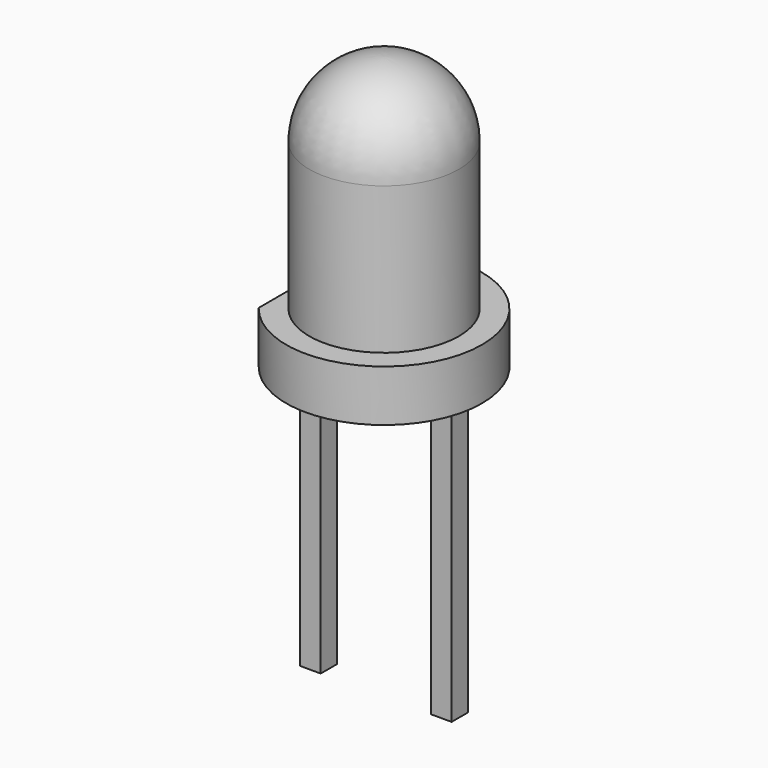
from build123d import *

# Parameters (mm, degrees)
PAD_DEPTH    = 1
SKETCH002_W  = 0.4
SKETCH002_H  = 0.4
PAD001_DEPTH = 6
SKETCH003_W  = 2.84
SKETCH003_H  = 0.4
PAD002_DEPTH = 1


with BuildPart() as pad:
    # Sketch001 → Pad (new body)
    with BuildSketch(Plane(origin=(1.27, 0, 3), x_dir=(1, 0, 0), z_dir=(0, 0, 1))):
        with BuildLine():
            ThreePointArc((-1.5, -1.16619), (1.9, 0), (-1.5, 1.16619))
            Line((-1.5, -1.16619), (-1.5, 1.16619))
        make_face()
    extrude(amount=PAD_DEPTH)


with BuildPart() as pad001:
    # Sketch002 → Pad001 (new body)
    with BuildSketch(Plane.XY.offset(3.5)):
        Rectangle(SKETCH002_W, SKETCH002_H)
        with Locations((2.54, 0)):
            Rectangle(SKETCH002_W, SKETCH002_H)
    extrude(amount=-PAD001_DEPTH)


with BuildPart() as pad002:
    # Sketch003 → Pad002 (new body)
    with BuildSketch(Plane.XY.offset(3.5)):
        with Locations((1.27, 0)):
            Rectangle(SKETCH003_W, SKETCH003_H)
    extrude(amount=PAD002_DEPTH)


with BuildPart() as revolution001:
    # Sketch004 → Revolution001 (revolve)
    with BuildSketch(Plane.XZ):
        Polygon((1.27, 4.275), (0.82, 4.725), (1.27, 4.725), align=None)
    revolve(axis=Axis((1.27, 0, 5.374987), (0, 0, -1)))


with BuildPart() as led_d3_0mm:
    # Sketch → Revolution (revolve)
    with BuildSketch(Plane(origin=(1.27, 0, 0), x_dir=(1, 0, 0), z_dir=(0, -1, 0))):
        with BuildLine():
            ThreePointArc((1.45, 6.85), (1.025305, 7.875305), (0, 8.3))
            Line((0, 4), (0, 8.3))
            Line((1.45, 4), (0, 4))
            Line((1.45, 6.85), (1.45, 4))
        make_face()
    revolve(axis=Axis((1.27, 0, 0), (0, 0, 1)))

    add(pad.part)
    add(pad001.part)
    add(pad002.part)
    add(revolution001.part)


solid = led_d3_0mm.part
